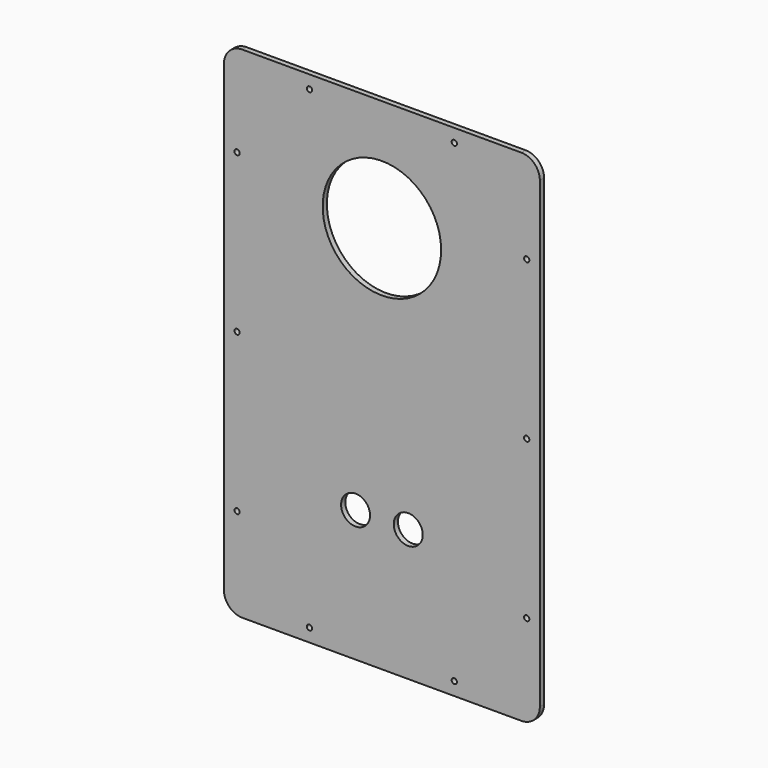
from build123d import *

# Parameters (mm, degrees)
F0_R     = 5.5
F0_R_2   = 22.5
F1_DEPTH = 2
F2_D     = 2


with BuildPart() as f1:
    # F0 (on Front) → F1 (new body)
    with BuildSketch(Plane.XZ):
        with BuildLine():
            ThreePointArc((60, 88), (57.949747, 92.949747), (53, 95))
            Line((53, 95), (-53, 95))
            ThreePointArc((-53, 95), (-57.949747, 92.949747), (-60, 88))
            Line((-60, 88), (-60, -88))
            ThreePointArc((-60, -88), (-57.949747, -92.949747), (-53, -95))
            Line((-53, -95), (53, -95))
            ThreePointArc((53, -95), (57.949747, -92.949747), (60, -88))
            Line((60, -88), (60, 88))
        make_face()
        with Locations((-10, -45)):
            Circle(F0_R, mode=Mode.SUBTRACT)
        with Locations((10, -45)):
            Circle(F0_R, mode=Mode.SUBTRACT)
        with Locations((0, 52.5)):
            Circle(F0_R_2, mode=Mode.SUBTRACT)
    extrude(amount=F1_DEPTH)

    # F2 (through all)
    with Locations(Plane(origin=(0, 0, 0), x_dir=(1, 0, 0), z_dir=(0, 1, 0))):
        with Locations((-27.5, 90), (-55, 60), (-55, 0), (-55, -60), (-27.5, -90), (27.5, -90), (55, -60), (55, 0), (55, 60), (27.5, 90)):
            Hole(F2_D / 2)


solid = f1.part
